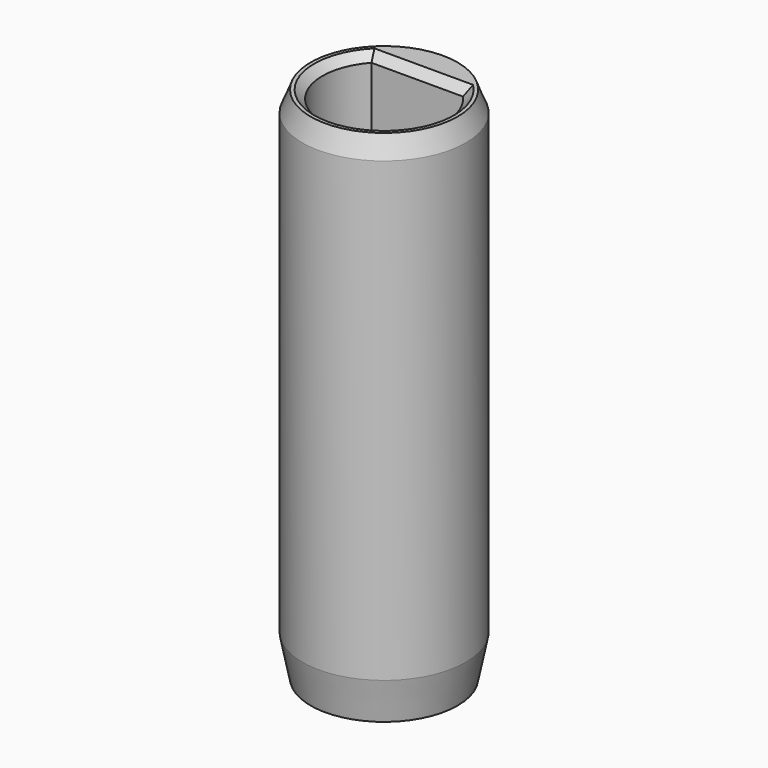
from build123d import *

# Parameters (mm, degrees)
F0_R     = 2
F1_DEPTH = 12.7
F2_SIZE2 = 0.2
F2_SIZE  = 1
F3_SIZE2 = 0.5
F3_SIZE  = 0.2
F4_SIZE  = 0.2
F5_SIZE2 = 0.3
F5_SIZE  = 0.2


with BuildPart() as f1:
    # F0 (on Top) → F1 (new body)
    with BuildSketch(Plane.XY):
        Circle(F0_R)
        with BuildLine():
            ThreePointArc((1.1213524201, 1.015), (1.411329477, 0.5438799108), (1.5125, 0))
            ThreePointArc((1.5125, 0), (-0.5438799108, -1.411329477), (-1.1213524201, 1.015))
            ThreePointArc((-1.1213524201, 1.015), (0, 1.5125), (1.1213524201, 1.015))
        make_face(mode=Mode.SUBTRACT)
        with BuildLine():
            Line((0, 1.015), (1.1213524201, 1.015))
            ThreePointArc((1.1213524201, 1.015), (0, 1.5125), (-1.1213524201, 1.015))
            Line((-1.1213524201, 1.015), (0, 1.015))
        make_face()
    extrude(amount=F1_DEPTH)

    # F2
    f2_edges = [f1.edges().sort_by_distance(p)[0] for p in [
        (-2, 0, 0),
    ]]
    f2_side = f1.faces().sort_by_distance((-2, 0, 6.35))[0]
    chamfer(f2_edges, length=F2_SIZE, length2=F2_SIZE2, reference=f2_side)

    # F3
    f3_edges = [f1.edges().sort_by_distance(p)[0] for p in [
        (-2, 0, 12.7),
    ]]
    f3_side = f1.faces().sort_by_distance((-1.943431, 0, 12.7))[0]
    chamfer(f3_edges, length=F3_SIZE, length2=F3_SIZE2, reference=f3_side)

    # F4
    f4_edges = [f1.edges().sort_by_distance(p)[0] for p in [
        (0, 1.015, 12.7),
        (0, -1.5125, 12.7),
    ]]
    chamfer(f4_edges, length=F4_SIZE)

    # F5
    f5_edges = [f1.edges().sort_by_distance(p)[0] for p in [
        (0, -1.5125, 0),
        (0, 1.015, 0),
    ]]
    f5_side = f1.faces().sort_by_distance((-1.749088, 0, 0))[0]
    chamfer(f5_edges, length=F5_SIZE, length2=F5_SIZE2, reference=f5_side)


solid = f1.part
